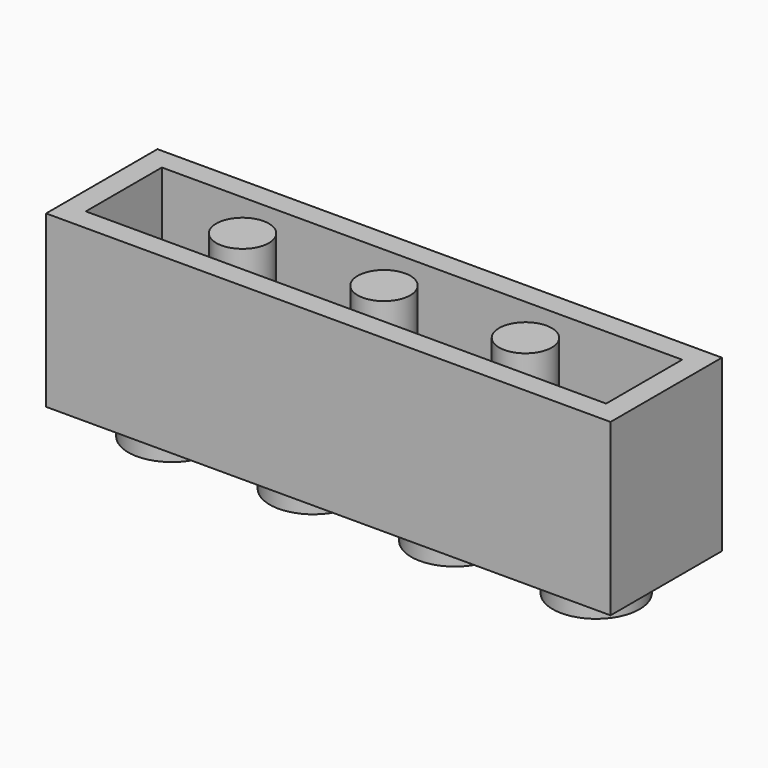
from build123d import *

# Parameters (mm, degrees)
F0_W     = 31.8262
F0_H     = 7.8486
F2_DEPTH = 9.6012
F1_R     = 2.4511
F3_DEPTH = 1.778
F4_W     = 29.337
F4_H     = 5.3594
F6_DEPTH = 7.62
F5_R     = 1.4859
F7_DEPTH = 8.128


with BuildPart() as f2:
    # F0 (on Top) → F2 (new body)
    with BuildSketch(Plane.XY):
        Rectangle(F0_W, F0_H)
    extrude(amount=F2_DEPTH)

    # F1 (on face) → F3 (join)
    with BuildSketch(Plane.XY):
        with Locations((-11.9634, 0)):
            Circle(F1_R)
        with Locations((-3.9878, 0)):
            Circle(F1_R)
        with Locations((3.9878, 0)):
            Circle(F1_R)
        with Locations((11.9634, 0)):
            Circle(F1_R)
    extrude(amount=-F3_DEPTH)

    # F4 (on face) → F6 (cut)
    with BuildSketch(Plane.XY.offset(9.6012)):
        Rectangle(F4_W, F4_H)
    extrude(amount=-F6_DEPTH, mode=Mode.SUBTRACT)

    # F5 (on face) → F7 (join)
    with BuildSketch(Plane.XY.offset(9.6012)):
        with Locations((-7.9756, 0)):
            Circle(F5_R)
        Circle(F5_R)
        with Locations((7.9756, 0)):
            Circle(F5_R)
    extrude(amount=-F7_DEPTH)


solid = f2.part
